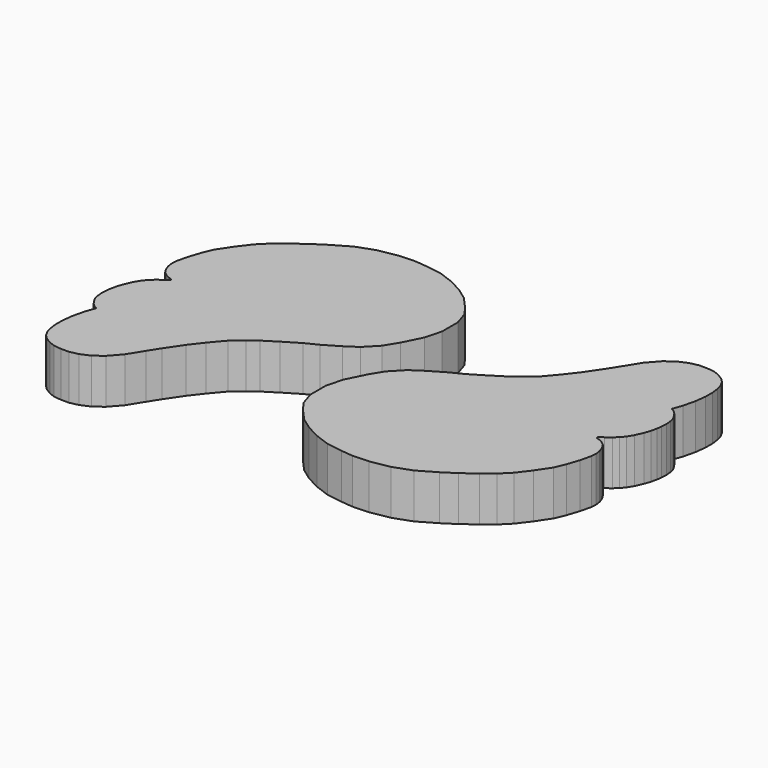
from build123d import *

# Parameters (mm, degrees)
PAD030_DEPTH            = 5
BODY030_PLACEMENT_ANGLE = 180
PAD004_DEPTH            = 5


with BuildPart() as body030:
    # Sketch032 → Pad030 (new body)
    with BuildSketch(Plane.XY):
        Polygon((-0.715895, 10.459235), (0.958153, 11.443971), (2.336782, 12.133285), (4.060069, 13.167257), (5.537171, 14.102756), (6.536532, 14.831632), (7.712062, 15.853839), (8.973101, 17.336113), (10.079276, 18.774139), (11.296068, 20.566143), (12.092514, 21.827183), (13.116936, 23.475929), (14.223111, 24.736969), (15.240791, 25.489166), (16.280596, 25.931637), (17.221134, 26.137039), (18.110924, 26.137039), (18.926565, 26.048061), (19.579077, 25.810783), (20.261248, 25.395548), (20.720972, 24.935823), (21.062059, 24.312971), (21.241928, 23.641508), (21.345737, 22.840698), (21.345737, 21.87676), (21.197439, 20.690374), (20.871256, 19.321636), (20.485682, 18.239059), (20.894186, 17.997505), (21.202349, 17.699284), (21.480688, 17.301653), (21.749088, 16.804617), (21.858437, 16.327463), (21.90814, 15.76084), (21.878248, 15.092189), (21.808664, 14.545448), (21.659552, 13.879419), (21.430916, 13.203449), (21.042017, 12.334372), (20.664268, 11.708105), (20.256699, 11.221009), (19.799425, 10.813439), (19.252686, 10.395929), (18.77553, 10.048003), (18.764149, 9.924158), (18.923201, 9.834691), (19.221422, 9.765106), (19.569347, 9.566292), (19.998131, 9.245623), (20.23671, 8.897697), (20.435524, 8.450364), (20.544872, 8.11238), (20.634338, 7.525877), (20.584635, 6.919492), (20.302982, 5.715654), (19.850153, 4.339052), (19.361095, 3.179808), (18.328644, 1.640186), (17.289362, 0.272043), (16.238798, -0.778522), (15.043327, -1.720408), (13.576158, -2.8072), (12.181441, -3.71286), (10.236815, -4.842392), (8.226252, -5.56692), (6.107007, -5.947297), (4.295688, -6.01975), (2.991537, -5.892957), (1.173591, -5.613963), (-0.443623, -5.019885), (-1.961825, -4.227778), (-3.248996, -3.303655), (-4.536168, -1.884467), (-5.262265, -0.86133), (-5.75733, 0.656871), (-5.75733, 2.868166), (-5.262265, 4.716413), (-4.237876, 6.772507), (-3.346758, 8.224701), (-2.043983, 9.573533), align=None)
    extrude(amount=PAD030_DEPTH)


with BuildPart() as body030_1:
    # Body030 placement: moved
    add(body030.part.moved(Location((-10, 20, -5))).rotate(Axis((-10, 20, -5), (0, 0, 1)), BODY030_PLACEMENT_ANGLE))


with BuildPart() as fusion001:
    # Sketch004 → Pad004 (new body)
    with BuildSketch(Plane.XY):
        Polygon((-0.715895, 10.459235), (0.958153, 11.443971), (2.336782, 12.133285), (4.060069, 13.167257), (5.537171, 14.102756), (6.536532, 14.831632), (7.712062, 15.853839), (8.973101, 17.336113), (10.079276, 18.774139), (11.296068, 20.566143), (12.092514, 21.827183), (13.116936, 23.475929), (14.223111, 24.736969), (15.240791, 25.489166), (16.280596, 25.931637), (17.221134, 26.137039), (18.110924, 26.137039), (18.926565, 26.048061), (19.579077, 25.810783), (20.261248, 25.395548), (20.720972, 24.935823), (21.062059, 24.312971), (21.241928, 23.641508), (21.345737, 22.840698), (21.345737, 21.87676), (21.197439, 20.690374), (20.871256, 19.321636), (20.485682, 18.239059), (20.894186, 17.997505), (21.202349, 17.699284), (21.480688, 17.301653), (21.749088, 16.804617), (21.858437, 16.327463), (21.90814, 15.76084), (21.878248, 15.092189), (21.808664, 14.545448), (21.659552, 13.879419), (21.430916, 13.203449), (21.042017, 12.334372), (20.664268, 11.708105), (20.256699, 11.221009), (19.799425, 10.813439), (19.252686, 10.395929), (18.77553, 10.048003), (18.764149, 9.924158), (18.923201, 9.834691), (19.221422, 9.765106), (19.569347, 9.566292), (19.998131, 9.245623), (20.23671, 8.897697), (20.435524, 8.450364), (20.544872, 8.11238), (20.634338, 7.525877), (20.584635, 6.919492), (20.302982, 5.715654), (19.850153, 4.339052), (19.361095, 3.179808), (18.328644, 1.640186), (17.289362, 0.272043), (16.238798, -0.778522), (15.043327, -1.720408), (13.576158, -2.8072), (12.181441, -3.71286), (10.236815, -4.842392), (8.226252, -5.56692), (6.107007, -5.947297), (4.295688, -6.01975), (2.991537, -5.892957), (1.173591, -5.613963), (-0.443623, -5.019885), (-1.961825, -4.227778), (-3.248996, -3.303655), (-4.536168, -1.884467), (-5.262265, -0.86133), (-5.75733, 0.656871), (-5.75733, 2.868166), (-5.262265, 4.716413), (-4.237876, 6.772507), (-3.346758, 8.224701), (-2.043983, 9.573533), align=None)
    extrude(amount=PAD004_DEPTH)


with BuildPart() as fusion001_1:
    # Body004 placement: moved
    add(fusion001.part.moved(Location((0, 0, -5))))

    # Fusion001: union Body030
    add(body030_1.part)


with BuildPart() as fusion001_2:
    # Fusion001 placement: moved
    add(fusion001_1.part.moved(Location((-80, 25, 0))))


solid = fusion001_2.part
